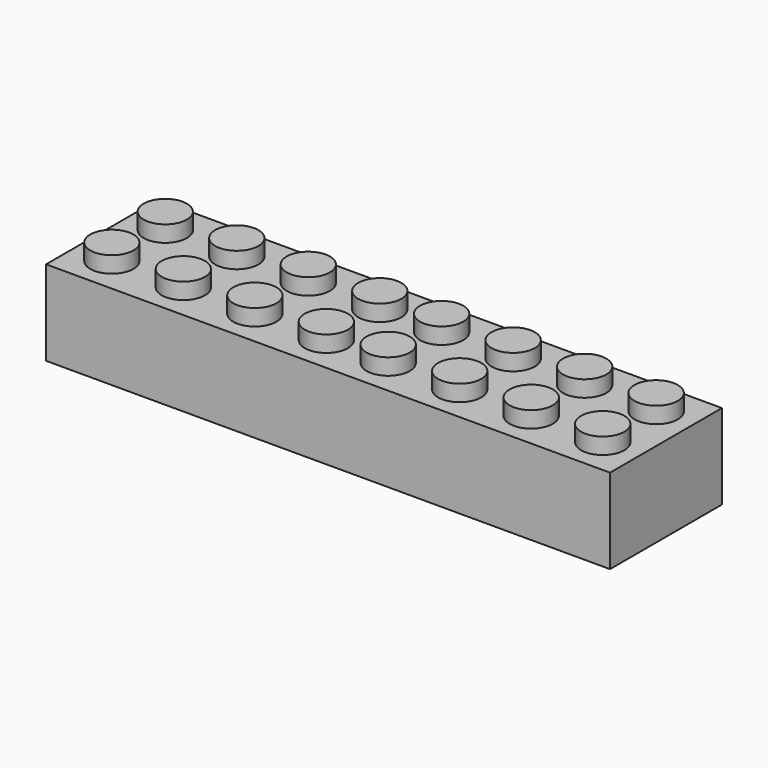
from build123d import *

# Parameters (mm, degrees)
F0_W     = 63.8048
F0_H     = 15.8242
F1_DEPTH = 9.6139
F2_R     = 2.44475
F3_DEPTH = 1.8415
F4_W     = 62.031426
F4_H     = 13.85646
F5_DEPTH = 8.382
F6_R     = 3.4163
F7_DEPTH = 8.382
F8_R     = 2.54
F9_DEPTH = 8.382


with BuildPart() as f1:
    # F0 (on Top) → F1 (new body)
    with BuildSketch(Plane.XY):
        Rectangle(F0_W, F0_H)
    extrude(amount=F1_DEPTH)

    # F2 (on face) → F3 (join)
    with BuildSketch(Plane.XY.offset(9.6139)):
        with Locations((-27.76855, 3.77825)):
            Circle(F2_R)
        with Locations((11.58875, -3.77825)):
            Circle(F2_R)
        with Locations((-3.49885, -3.77825)):
            Circle(F2_R)
        with Locations((3.49885, -3.77825)):
            Circle(F2_R)
        with Locations((19.67865, -3.77825)):
            Circle(F2_R)
        with Locations((27.76855, -3.77825)):
            Circle(F2_R)
        with Locations((27.76855, 3.77825)):
            Circle(F2_R)
        with Locations((19.67865, 3.77825)):
            Circle(F2_R)
        with Locations((11.58875, 3.77825)):
            Circle(F2_R)
        with Locations((-27.76855, -3.77825)):
            Circle(F2_R)
        with Locations((3.49885, 3.77825)):
            Circle(F2_R)
        with Locations((-3.49885, 3.77825)):
            Circle(F2_R)
        with Locations((-11.58875, 3.77825)):
            Circle(F2_R)
        with Locations((-11.58875, -3.77825)):
            Circle(F2_R)
        with Locations((-19.67865, -3.77825)):
            Circle(F2_R)
        with Locations((-19.67865, 3.77825)):
            Circle(F2_R)
    extrude(amount=F3_DEPTH)

    # F4 (on face) → F5 (cut)
    with BuildSketch(Plane(origin=(0, 0, 0), x_dir=(1, 0, 0), z_dir=(0, 0, -1))):
        Rectangle(F4_W, F4_H)
    extrude(amount=-F5_DEPTH, mode=Mode.SUBTRACT)

    # F6 (on face) → F7 (join)
    with BuildSketch(Plane(origin=(0, 0, 8.382), x_dir=(1, 0, 0), z_dir=(0, 0, -1))):
        with Locations((-16.245613, 0)):
            Circle(F6_R)
        with Locations((-24.399013, 0)):
            Circle(F6_R)
        Circle(F6_R)
        with Locations((-8.092213, 0)):
            Circle(F6_R)
        with Locations((8.092213, 0)):
            Circle(F6_R)
        with Locations((24.399013, 0)):
            Circle(F6_R)
        with Locations((16.245613, 0)):
            Circle(F6_R)
    extrude(amount=F7_DEPTH)

    # F8 (on face) → F9 (cut)
    with BuildSketch(Plane(origin=(0, 0, 0), x_dir=(1, 0, 0), z_dir=(0, 0, -1))):
        with Locations((-24.399013, 0)):
            Circle(F8_R)
        with Locations((-16.245613, 0)):
            Circle(F8_R)
        with Locations((-8.092213, 0)):
            Circle(F8_R)
        Circle(F8_R)
        with Locations((8.092213, 0)):
            Circle(F8_R)
        with Locations((16.245613, 0)):
            Circle(F8_R)
        with Locations((24.399013, 0)):
            Circle(F8_R)
    extrude(amount=-F9_DEPTH, mode=Mode.SUBTRACT)


solid = f1.part
